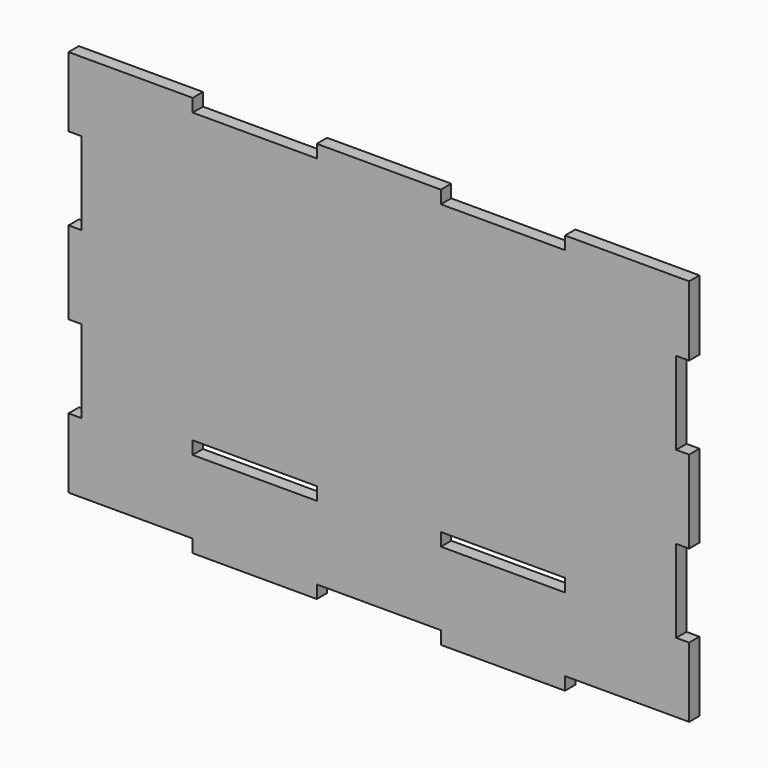
from build123d import *

# Parameters (mm, degrees)
F0_W     = 30.48
F0_H     = 3.175
F1_DEPTH = 3.175


with BuildPart() as f1:
    # F0 (on Front) → F1 (new body)
    with BuildSketch(Plane.XZ):
        Polygon((-308.777632, 17.145), (-308.777632, 0), (-278.297632, 0), (-278.297632, -3.175), (-247.817632, -3.175), (-247.817632, 0), (-217.337632, 0), (-217.337632, -3.175), (-186.857632, -3.175), (-186.857632, 0), (-156.377632, 0), (-156.377632, 17.145), (-159.552632, 17.145), (-159.552632, 37.465), (-156.377632, 37.465), (-156.377632, 57.785), (-159.552632, 57.785), (-159.552632, 78.105), (-156.377632, 78.105), (-156.377632, 95.25), (-186.857632, 95.25), (-186.857632, 92.075), (-217.337632, 92.075), (-217.337632, 95.25), (-247.817632, 95.25), (-247.817632, 92.075), (-278.297632, 92.075), (-278.297632, 95.25), (-308.777632, 95.25), (-308.777632, 78.105), (-305.602632, 78.105), (-305.602632, 57.785), (-308.777632, 57.785), (-308.777632, 37.465), (-305.602632, 37.465), (-305.602632, 17.145), align=None)
        with Locations((-263.057632, 19.6469)):
            Rectangle(F0_W, F0_H, mode=Mode.SUBTRACT)
        with Locations((-202.097632, 19.6469)):
            Rectangle(F0_W, F0_H, mode=Mode.SUBTRACT)
    extrude(amount=F1_DEPTH)


solid = f1.part
